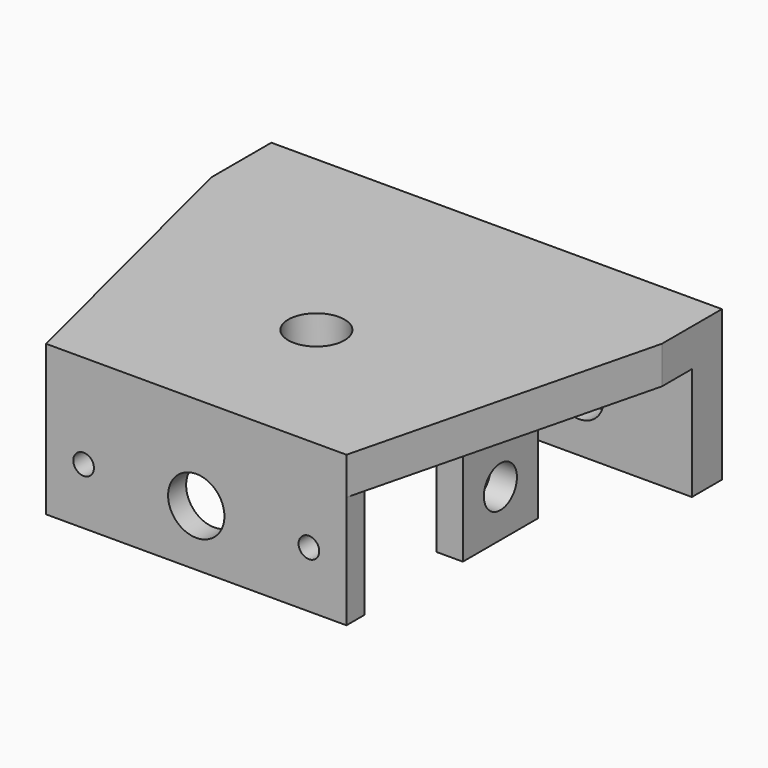
from build123d import *

# Parameters (mm, degrees)
SKETCH_W            = 120
SKETCH_H            = 100
PAD_DEPTH           = 10
SKETCH001_W         = 120
SKETCH001_H         = 30
PAD001_DEPTH        = 10
POCKET_DEPTH        = 36
SKETCH003_W         = 80
SKETCH003_H         = 6
PAD002_DEPTH        = 30
SKETCH004_R         = 2.75
HOLE_DEPTH          = 10.001
SKETCH005_W         = 7
SKETCH005_H         = 25
PAD003_DEPTH        = 25
SKETCH006_R         = 5.5
HOLE001_DEPTH       = 130.001
SKETCH011_R         = 7.5
HOLE004_DEPTH       = 25
HOLE004_TIPS_R      = 7.5
HOLE005_D           = 5.5
HOLE005_DEPTH       = 25
HOLE005_CBORE_D     = 13
HOLE005_CBORE_DEPTH = 6.4
SKETCH013_R         = 7.5
HOLE006_DEPTH       = 170.001
SKETCH014_R         = 7.5
HOLE007_DEPTH       = 25


with BuildPart() as part:
    # Sketch → Pad (new body)
    with BuildSketch(Plane.XY):
        with Locations((0, -120)):
            Rectangle(SKETCH_W, SKETCH_H)
    extrude(amount=PAD_DEPTH)

    # Sketch001 → Pad001 (join)
    with BuildSketch(Plane.XZ.offset(70)):
        with Locations((0, -15)):
            Rectangle(SKETCH001_W, SKETCH001_H)
    extrude(amount=PAD001_DEPTH)

    # Sketch002 → Pocket (cut)
    with BuildSketch(Plane.XY):
        Polygon((-60, -170), (-60, -90), (-40, -170), align=None)
        Polygon((60, -170), (60, -90), (40, -170), align=None)
    extrude(amount=POCKET_DEPTH, mode=Mode.SUBTRACT)

    # Sketch003 → Pad002 (join)
    with BuildSketch(Plane.XY):
        with Locations((0, -167)):
            Rectangle(SKETCH003_W, SKETCH003_H)
    extrude(amount=-PAD002_DEPTH)

    # Sketch004 → Hole (cut, through all)
    with BuildSketch(Plane.XZ.offset(160)):
        with Locations((-30, -15)):
            Circle(SKETCH004_R)
        with Locations((30, -15)):
            Circle(SKETCH004_R)
    extrude(amount=HOLE_DEPTH, mode=Mode.SUBTRACT)

    # Sketch005 → Pad003 (join)
    with BuildSketch(Plane.XY):
        with Locations((43.5, -127.5)):
            Rectangle(SKETCH005_W, SKETCH005_H)
        with Locations((-43.5, -127.5)):
            Rectangle(SKETCH005_W, SKETCH005_H)
    extrude(amount=-PAD003_DEPTH)

    # Sketch006 → Hole001 (cut, through all)
    with BuildSketch(Plane.YZ.offset(70)):
        with Locations((-127.5, -12.5)):
            Circle(SKETCH006_R)
    extrude(amount=-HOLE001_DEPTH, mode=Mode.SUBTRACT)

    # Sketch011 → Hole004 (cut)
    with BuildSketch(Plane.XZ.offset(170)):
        with Locations((0, -15)):
            Circle(SKETCH011_R)
    extrude(amount=-HOLE004_DEPTH, mode=Mode.SUBTRACT)

    # Hole004 tips → Hole004 tip 1 section 0
    with BuildSketch(Plane.XZ.offset(145), mode=Mode.PRIVATE) as hole004_tip_1_s0:
        with Locations((0, -15)):
            Circle(HOLE004_TIPS_R)
    loft([hole004_tip_1_s0.sketch, Vertex(0, -140.493545, -15)], mode=Mode.SUBTRACT)

    # Hole005
    with Locations(Plane.XZ.offset(80)):
        with Locations((-30, -15), (30, -15)):
            CounterBoreHole(HOLE005_D / 2, HOLE005_CBORE_D / 2, HOLE005_CBORE_DEPTH, depth=HOLE005_DEPTH)

    # Sketch013 → Hole006 (cut, through all)
    with BuildSketch(Plane.XZ):
        with Locations((0, -15)):
            Circle(SKETCH013_R)
    extrude(amount=HOLE006_DEPTH, mode=Mode.SUBTRACT)

    # Sketch014 → Hole007 (cut)
    with BuildSketch(Plane.XY):
        with Locations((0, -130)):
            Circle(SKETCH014_R)
    extrude(amount=HOLE007_DEPTH, mode=Mode.SUBTRACT)


solid = part.part
